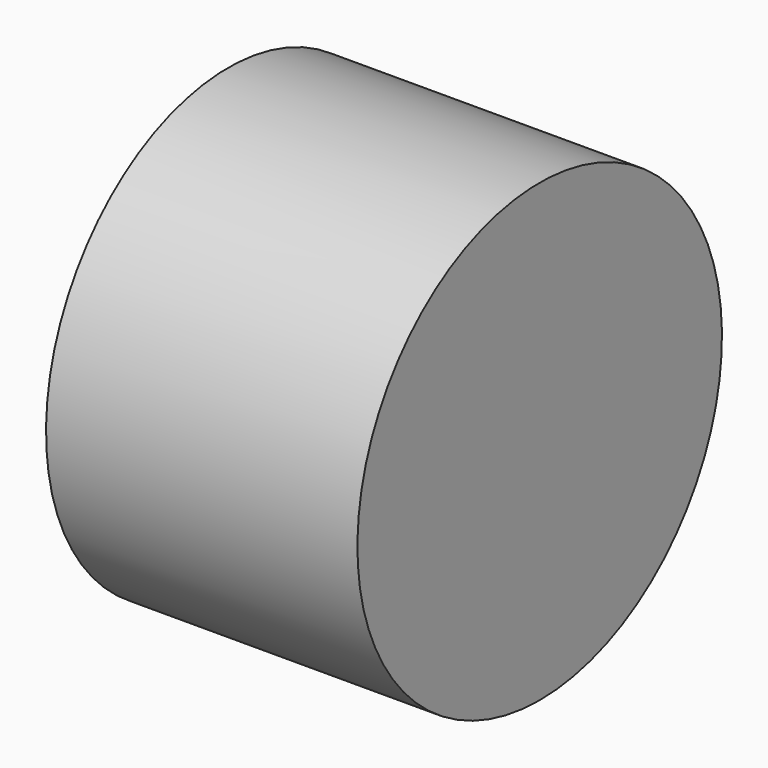
from build123d import *

# Parameters (mm, degrees)
CYLINDER054_R     = 1.25
CYLINDER054_DEPTH = 5
CYLINDER031_R     = 3
CYLINDER031_DEPTH = 4.1


with BuildPart() as b_w001:
    # Cylinder054 → Cylinder054 (new body)
    with BuildSketch(Plane(origin=(2, 16, 7), x_dir=(0, 0, 1), z_dir=(-1, 0, 0))):
        Circle(CYLINDER054_R)
    extrude(amount=CYLINDER054_DEPTH)


with BuildPart() as cut021:
    # Cylinder031 → Cylinder031 (new body)
    with BuildSketch(Plane(origin=(-1, 16, 7), x_dir=(0, 0, -1), z_dir=(1, 0, 0))):
        Circle(CYLINDER031_R)
    extrude(amount=CYLINDER031_DEPTH)

    # Cut021: cut B_W001
    add(b_w001.part, mode=Mode.SUBTRACT)


solid = cut021.part
